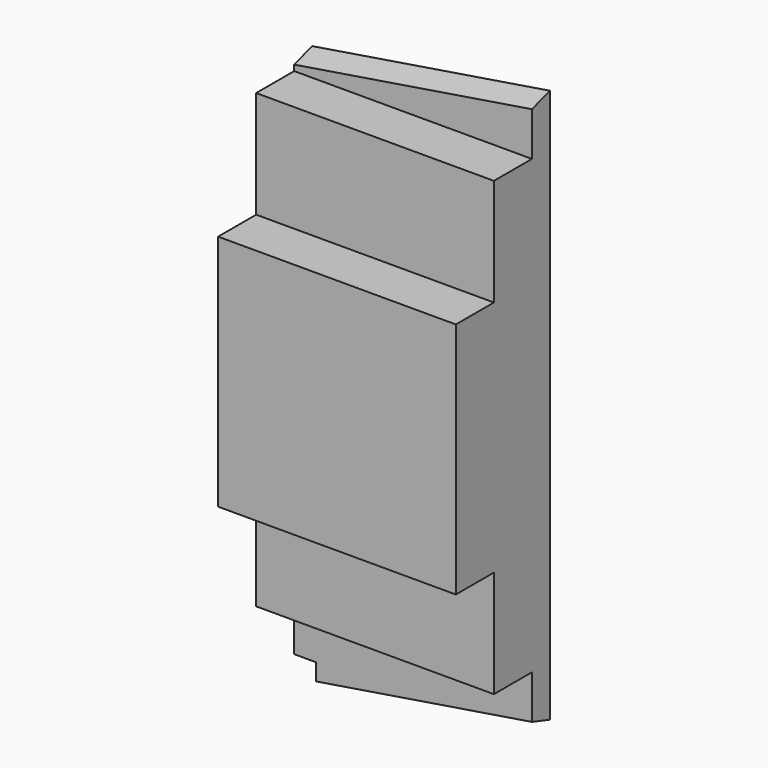
from build123d import *

# Parameters (mm, degrees)
F0_W      = 31.75
F0_H      = 67.31
F1_DEPTH  = 3.175
F3_DEPTH  = 25.4
F12_W     = 3.175
F12_H     = 0.1778
F14_DEPTH = 0.1778
F15_W     = 31.75
F15_H     = 15.875
F16_DEPTH = 12.7
F15_H_2   = 14.3002
F17_DEPTH = 6.35


with BuildPart() as f1:
    # F0 (on Front) → F1 (new body)
    with BuildSketch(Plane.XZ):
        with Locations((15.875, 33.655)):
            Rectangle(F0_W, F0_H)
        Polygon((31.75, 72.39), (0, 67.31), (31.75, 67.31), align=None)
        Polygon((31.75, 0), (0, 0), (0, -5.08), align=None)
    extrude(amount=F1_DEPTH)

    # F2 (on face) → F3 (cut)
    with BuildSketch(Plane.XZ.offset(3.175)):
        Polygon((0, -2.3622), (0, -2.54), (2.54, -2.54), (2.54, -4.6736), (2.7178, -4.645152), (2.7178, -2.3622), align=None)
        Polygon((2.54, -4.6736), (0, -5.08), (2.54, -5.08), align=None)
        Polygon((0, -2.54), (0, -5.08), (2.54, -4.6736), (2.54, -2.54), align=None)
    extrude(amount=-F3_DEPTH, mode=Mode.SUBTRACT)

    # F5: sweep along a path in F5_path
    with BuildLine(Plane(origin=(31.75, -3.175, 0), x_dir=(0.9874406319, 0, 0.1579905011), z_dir=(0.1579905011, 0, -0.9874406319))) as f5_path:
        Line((0, 0), (-29.4014638061, 0))
    # F4 (on face) → F5 (sweep)
    with BuildSketch(Plane(origin=(2.7178, 0, 0), x_dir=(0, -1, 0), z_dir=(-1, 0, 0))):
        Polygon((0, -5.661152), (3.175, -4.645152), (0, -4.645152), align=None)
    sweep(path=f5_path.line)

    # F7: sweep along a path in F7_path
    with BuildLine(Plane(origin=(31.75, -3.175, 72.39), x_dir=(0.9874406319, 0, 0.1579905011), z_dir=(0.1579905011, 0, -0.9874406319))) as f7_path:
        Line((0, 0), (-32.153831809, 0))
    # F6 (on face) → F7 (sweep)
    with BuildSketch(Plane(origin=(0, 0, 0), x_dir=(0, -1, 0), z_dir=(-1, 0, 0))):
        Polygon((0, 68.326), (0, 67.31), (3.175, 67.31), align=None)
    sweep(path=f7_path.line)

    # F9: sweep along a path in F9_path
    with BuildLine(Plane(origin=(0, -3.175, 67.31), x_dir=(-0.9874406319, 0, -0.1579905011), z_dir=(-0.1579905011, 0, 0.9874406319))) as f9_path:
        Line((0, 0), (-32.153831809, 0))
    # F8 (on face) → F9 (sweep, cut)
    with BuildSketch(Plane.YZ.offset(31.75)):
        Polygon((0, 73.406), (-3.175, 72.39), (-3.175, 72.2122), (0, 73.2282), align=None)
    sweep(path=f9_path.line, mode=Mode.SUBTRACT)

    # F11: sweep along a path in F11_path
    with BuildLine(Plane(origin=(31.75, -3.175, 0), x_dir=(0.9874406319, 0, 0.1579905011), z_dir=(0.1579905011, 0, -0.9874406319))) as f11_path:
        Line((0, 0), (-29.4014638061, 0))
    # F10 (on face) → F11 (sweep, cut)
    with BuildSketch(Plane.YZ.offset(31.75)):
        Polygon((-3.175, 0.1778), (-3.175, 0), (0, -1.016), (0, -0.8382), align=None)
    sweep(path=f11_path.line, mode=Mode.SUBTRACT)

    # F13: sweep along a path in F13_path
    with BuildLine(Plane(origin=(2.7178, 0, -2.3622), x_dir=(0, 0, -1), z_dir=(0, 1, 0))) as f13_path:
        Line((3.121152, 0), (0, 0))
        Line((0, 0), (0, 2.7178))
    # F12 (on face) → F13 (sweep, cut)
    with BuildSketch(Plane(origin=(0, 0, 0), x_dir=(0, -1, 0), z_dir=(-1, 0, 0))):
        with Locations((1.5875, -2.2733)):
            Rectangle(F12_W, F12_H)
    sweep(path=f13_path.line, transition=Transition.RIGHT, mode=Mode.SUBTRACT)

    # F14 (cut): a face of the model
    f14_faces = [f1.faces().sort_by_distance(p)[0] for p in [
        (15.9376220602, 0, 33.8178143866),
    ]]
    extrude(f14_faces, amount=-F14_DEPTH, mode=Mode.SUBTRACT)

    # F15 (on face) → F16 (join)
    with BuildSketch(Plane.XZ.offset(3.175)):
        with Locations((15.875, 44.1325)):
            Rectangle(F15_W, F15_H)
        with Locations((15.875, 28.2575)):
            Rectangle(F15_W, F15_H)
    extrude(amount=F16_DEPTH)

    # F15 (on face) → F17 (join)
    with BuildSketch(Plane.XZ.offset(3.175)):
        with Locations((15.875, 59.2201)):
            Rectangle(F15_W, F15_H_2)
        with Locations((15.875, 13.1699)):
            Rectangle(F15_W, F15_H_2)
    extrude(amount=F17_DEPTH)


solid = f1.part
